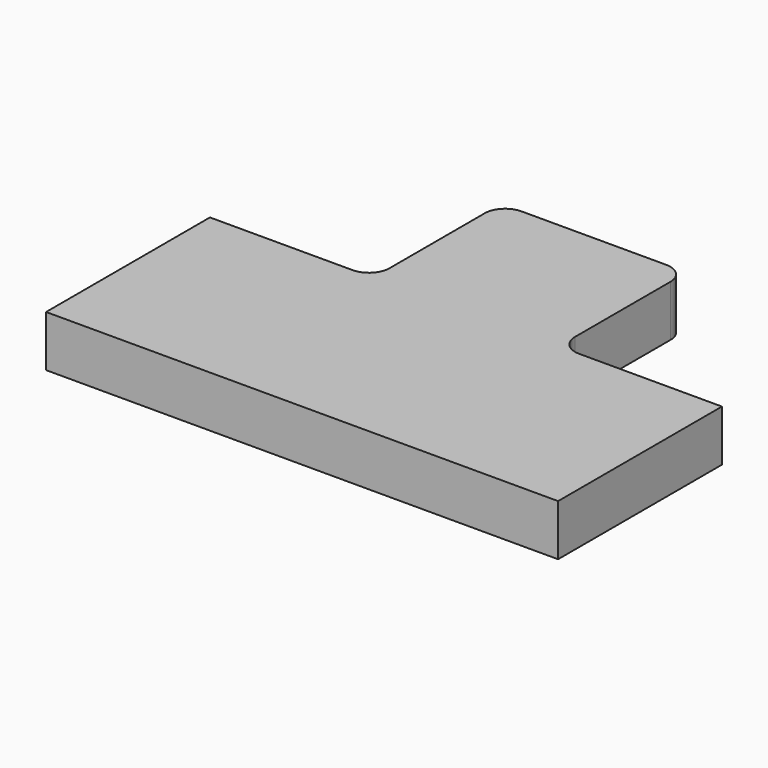
from build123d import *

# Parameters (mm, degrees)
F0_W     = 46.0502
F0_H     = 39.6875
F1_DEPTH = 12.7
F2_R     = 5.08


with BuildPart() as f1:
    # F0 (on Top) → F1 (new body)
    with BuildSketch(Plane.XY):
        Polygon((63.5, -19.84375), (23.0251, -19.84375), (-23.0251, -19.84375), (-63.5, -19.84375), (-63.5, -70.64375), (63.5, -70.64375), align=None)
        Rectangle(F0_W, F0_H)
    extrude(amount=F1_DEPTH)

    # F2
    f2_edges = [f1.edges().sort_by_distance(p)[0] for p in [
        (-23.0251, 19.84375, 6.35),
        (23.0251, 19.84375, 6.35),
        (23.0251, -19.84375, 6.35),
        (-23.0251, -19.84375, 6.35),
    ]]
    fillet(f2_edges, radius=F2_R)


solid = f1.part
